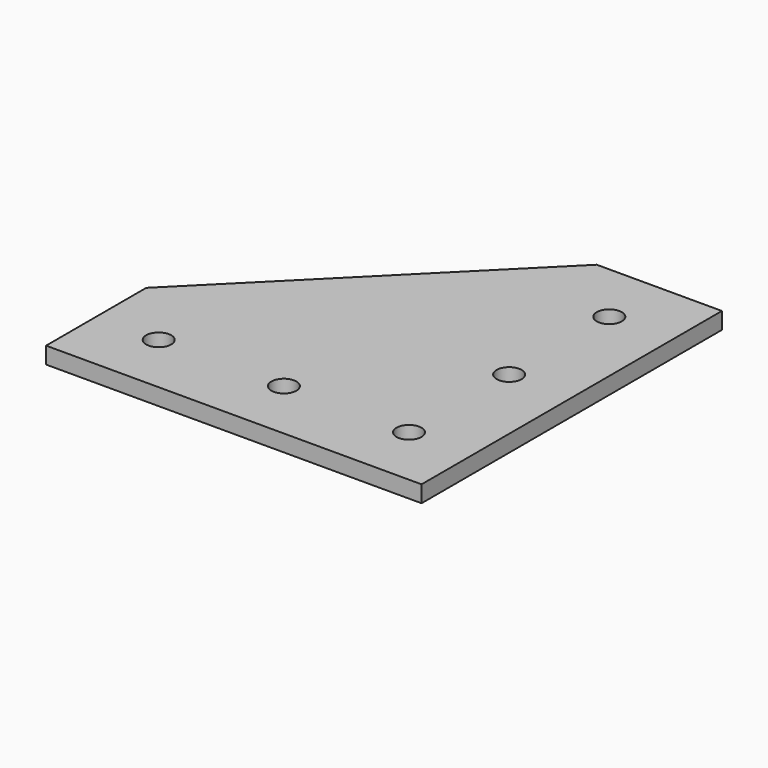
from build123d import *

# Parameters (mm, degrees)
F0_R     = 3
F1_DEPTH = 4


with BuildPart() as f1:
    # F0 (on Top) → F1 (new body)
    with BuildSketch(Plane.XY):
        Polygon((-45, -45), (45, -45), (45, 45), (15, 45), (-45, -15), align=None)
        with Locations((-30, -30)):
            Circle(F0_R, mode=Mode.SUBTRACT)
        with Locations((0, -30)):
            Circle(F0_R, mode=Mode.SUBTRACT)
        with Locations((30, -30)):
            Circle(F0_R, mode=Mode.SUBTRACT)
        with Locations((30, 0)):
            Circle(F0_R, mode=Mode.SUBTRACT)
        with Locations((30, 30)):
            Circle(F0_R, mode=Mode.SUBTRACT)
    extrude(amount=F1_DEPTH)


solid = f1.part
